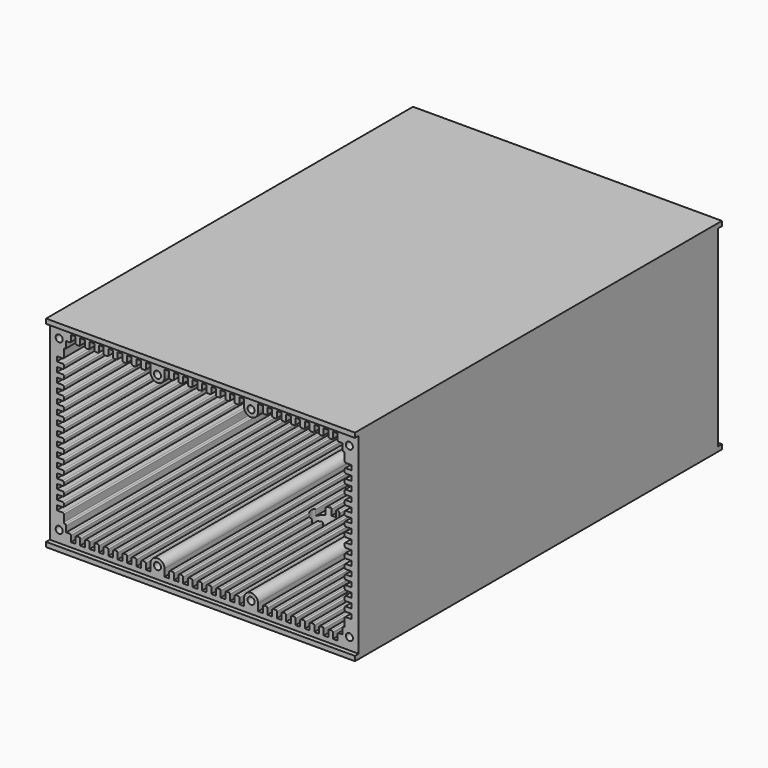
from build123d import *

# Parameters (mm, degrees)
F0_W     = 104.775
F0_H     = 68.2625
F0_R     = 1.190625
F1_DEPTH = 77.7875
F2_W     = 1.5875
F2_H     = 65.0875
F3_DEPTH = 104.775
F5_D     = 8.4328
F5_DEPTH = 12.7
F5_TIP   = 2.5334687141


with BuildPart() as f1:
    # F0 (on Front) → F1 (new body, symmetric)
    with BuildSketch(Plane.XZ):
        Rectangle(F0_W, F0_H)
        with Locations((-49.2125, -28.575)):
            Circle(F0_R, mode=Mode.SUBTRACT)
        with Locations((-15.875, -28.575)):
            Circle(F0_R, mode=Mode.SUBTRACT)
        with Locations((15.875, -28.575)):
            Circle(F0_R, mode=Mode.SUBTRACT)
        with Locations((49.2125, -28.575)):
            Circle(F0_R, mode=Mode.SUBTRACT)
        with Locations((-49.2125, 28.575)):
            Circle(F0_R, mode=Mode.SUBTRACT)
        with Locations((-15.875, 28.575)):
            Circle(F0_R, mode=Mode.SUBTRACT)
        with BuildLine():
            Line((-50.00625, 21.43125), (-50.00625, 23.01875))
            Line((-50.00625, 23.01875), (-48.021875, 23.01875))
            ThreePointArc((-48.021875, 23.01875), (-47.7412419962, 23.1349919962), (-47.625, 23.415625))
            Line((-47.625, 23.415625), (-47.625, 25.796875))
            ThreePointArc((-47.625, 25.796875), (-47.5087580038, 26.0775080038), (-47.228125, 26.19375))
            ThreePointArc((-47.228125, 26.19375), (-46.9474919962, 26.3099919962), (-46.83125, 26.590625))
            Line((-46.83125, 26.590625), (-46.83125, 28.575))
            Line((-46.83125, 28.575), (-45.640625, 28.575))
            ThreePointArc((-45.640625, 28.575), (-45.3599919962, 28.6912419962), (-45.24375, 28.971875))
            Line((-45.24375, 28.971875), (-45.24375, 30.95625))
            Line((-45.24375, 30.95625), (-43.65625, 30.95625))
            Line((-43.65625, 30.95625), (-43.65625, 28.971875))
            ThreePointArc((-43.65625, 28.971875), (-43.5400080038, 28.6912419962), (-43.259375, 28.575))
            Line((-43.259375, 28.575), (-42.465625, 28.575))
            ThreePointArc((-42.465625, 28.575), (-42.1849919962, 28.6912419962), (-42.06875, 28.971875))
            Line((-42.06875, 28.971875), (-42.06875, 30.95625))
            Line((-42.06875, 30.95625), (-40.48125, 30.95625))
            Line((-40.48125, 30.95625), (-40.48125, 28.971875))
            ThreePointArc((-40.48125, 28.971875), (-40.3650080038, 28.6912419962), (-40.084375, 28.575))
            Line((-40.084375, 28.575), (-39.290625, 28.575))
            ThreePointArc((-39.290625, 28.575), (-39.0099919962, 28.6912419962), (-38.89375, 28.971875))
            Line((-38.89375, 28.971875), (-38.89375, 30.95625))
            Line((-38.89375, 30.95625), (-37.30625, 30.95625))
            Line((-37.30625, 30.95625), (-37.30625, 28.971875))
            ThreePointArc((-37.30625, 28.971875), (-37.1900080038, 28.6912419962), (-36.909375, 28.575))
            Line((-36.909375, 28.575), (-36.115625, 28.575))
            ThreePointArc((-36.115625, 28.575), (-35.8349919962, 28.6912419962), (-35.71875, 28.971875))
            Line((-35.71875, 28.971875), (-35.71875, 30.95625))
            Line((-35.71875, 30.95625), (-34.13125, 30.95625))
            Line((-34.13125, 30.95625), (-34.13125, 28.971875))
            ThreePointArc((-34.13125, 28.971875), (-34.0150080038, 28.6912419962), (-33.734375, 28.575))
            Line((-33.734375, 28.575), (-32.940625, 28.575))
            ThreePointArc((-32.940625, 28.575), (-32.6599919962, 28.6912419962), (-32.54375, 28.971875))
            Line((-32.54375, 28.971875), (-32.54375, 30.95625))
            Line((-32.54375, 30.95625), (-30.95625, 30.95625))
            Line((-30.95625, 30.95625), (-30.95625, 28.971875))
            ThreePointArc((-30.95625, 28.971875), (-30.8400080038, 28.6912419962), (-30.559375, 28.575))
            Line((-30.559375, 28.575), (-29.765625, 28.575))
            ThreePointArc((-29.765625, 28.575), (-29.4849919962, 28.6912419962), (-29.36875, 28.971875))
            Line((-29.36875, 28.971875), (-29.36875, 30.95625))
            Line((-29.36875, 30.95625), (-27.78125, 30.95625))
            Line((-27.78125, 30.95625), (-27.78125, 28.971875))
            ThreePointArc((-27.78125, 28.971875), (-27.6650080038, 28.6912419962), (-27.384375, 28.575))
            Line((-27.384375, 28.575), (-26.590625, 28.575))
            ThreePointArc((-26.590625, 28.575), (-26.3099919962, 28.6912419962), (-26.19375, 28.971875))
            Line((-26.19375, 28.971875), (-26.19375, 30.95625))
            Line((-26.19375, 30.95625), (-24.60625, 30.95625))
            Line((-24.60625, 30.95625), (-24.60625, 28.971875))
            ThreePointArc((-24.60625, 28.971875), (-24.4900080038, 28.6912419962), (-24.209375, 28.575))
            Line((-24.209375, 28.575), (-23.415625, 28.575))
            ThreePointArc((-23.415625, 28.575), (-23.1349919962, 28.6912419962), (-23.01875, 28.971875))
            Line((-23.01875, 28.971875), (-23.01875, 30.95625))
            Line((-23.01875, 30.95625), (-21.43125, 30.95625))
            Line((-21.43125, 30.95625), (-21.43125, 28.971875))
            ThreePointArc((-21.43125, 28.971875), (-21.3150080038, 28.6912419962), (-21.034375, 28.575))
            Line((-21.034375, 28.575), (-20.240625, 28.575))
            ThreePointArc((-20.240625, 28.575), (-19.9599919962, 28.6912419962), (-19.84375, 28.971875))
            Line((-19.84375, 28.971875), (-19.84375, 30.95625))
            Line((-19.84375, 30.95625), (-18.25625, 30.95625))
            Line((-18.25625, 30.95625), (-18.25625, 28.575))
            ThreePointArc((-18.25625, 28.575), (-15.875, 26.19375), (-13.49375, 28.575))
            Line((-13.49375, 28.575), (-13.49375, 30.95625))
            Line((-13.49375, 30.95625), (-11.90625, 30.95625))
            Line((-11.90625, 30.95625), (-11.90625, 28.971875))
            ThreePointArc((-11.90625, 28.971875), (-11.7900080038, 28.6912419962), (-11.509375, 28.575))
            Line((-11.509375, 28.575), (-10.715625, 28.575))
            ThreePointArc((-10.715625, 28.575), (-10.4349919962, 28.6912419962), (-10.31875, 28.971875))
            Line((-10.31875, 28.971875), (-10.31875, 30.95625))
            Line((-10.31875, 30.95625), (-8.73125, 30.95625))
            Line((-8.73125, 30.95625), (-8.73125, 28.971875))
            ThreePointArc((-8.73125, 28.971875), (-8.6150080038, 28.6912419962), (-8.334375, 28.575))
            Line((-8.334375, 28.575), (-7.540625, 28.575))
            ThreePointArc((-7.540625, 28.575), (-7.2599919962, 28.6912419962), (-7.14375, 28.971875))
            Line((-7.14375, 28.971875), (-7.14375, 30.95625))
            Line((-7.14375, 30.95625), (-5.55625, 30.95625))
            Line((-5.55625, 30.95625), (-5.55625, 28.971875))
            ThreePointArc((-5.55625, 28.971875), (-5.4400080038, 28.6912419962), (-5.159375, 28.575))
            Line((-5.159375, 28.575), (-4.365625, 28.575))
            ThreePointArc((-4.365625, 28.575), (-4.0849919962, 28.6912419962), (-3.96875, 28.971875))
            Line((-3.96875, 28.971875), (-3.96875, 30.95625))
            Line((-3.96875, 30.95625), (-2.38125, 30.95625))
            Line((-2.38125, 30.95625), (-2.38125, 28.971875))
            ThreePointArc((-2.38125, 28.971875), (-2.2650080038, 28.6912419962), (-1.984375, 28.575))
            Line((-1.984375, 28.575), (-1.190625, 28.575))
            ThreePointArc((-1.190625, 28.575), (-0.9099919962, 28.6912419962), (-0.79375, 28.971875))
            Line((-0.79375, 28.971875), (-0.79375, 30.95625))
            Line((-0.79375, 30.95625), (0, 30.95625))
            Line((0, 30.95625), (0.79375, 30.95625))
            Line((0.79375, 30.95625), (0.79375, 28.971875))
            ThreePointArc((0.79375, 28.971875), (0.9099919962, 28.6912419962), (1.190625, 28.575))
            Line((1.190625, 28.575), (1.984375, 28.575))
            ThreePointArc((1.984375, 28.575), (2.2650080038, 28.6912419962), (2.38125, 28.971875))
            Line((2.38125, 28.971875), (2.38125, 30.95625))
            Line((2.38125, 30.95625), (3.96875, 30.95625))
            Line((3.96875, 30.95625), (3.96875, 28.971875))
            ThreePointArc((3.96875, 28.971875), (4.0849919962, 28.6912419962), (4.365625, 28.575))
            Line((4.365625, 28.575), (5.159375, 28.575))
            ThreePointArc((5.159375, 28.575), (5.4400080038, 28.6912419962), (5.55625, 28.971875))
            Line((5.55625, 28.971875), (5.55625, 30.95625))
            Line((5.55625, 30.95625), (7.14375, 30.95625))
            Line((7.14375, 30.95625), (7.14375, 28.971875))
            ThreePointArc((7.14375, 28.971875), (7.2599919962, 28.6912419962), (7.540625, 28.575))
            Line((7.540625, 28.575), (8.334375, 28.575))
            ThreePointArc((8.334375, 28.575), (8.6150080038, 28.6912419962), (8.73125, 28.971875))
            Line((8.73125, 28.971875), (8.73125, 30.95625))
            Line((8.73125, 30.95625), (10.31875, 30.95625))
            Line((10.31875, 30.95625), (10.31875, 28.971875))
            ThreePointArc((10.31875, 28.971875), (10.4349919962, 28.6912419962), (10.715625, 28.575))
            Line((10.715625, 28.575), (11.509375, 28.575))
            ThreePointArc((11.509375, 28.575), (11.7900080038, 28.6912419962), (11.90625, 28.971875))
            Line((11.90625, 28.971875), (11.90625, 30.95625))
            Line((11.90625, 30.95625), (13.49375, 30.95625))
            Line((13.49375, 30.95625), (13.49375, 28.575))
            ThreePointArc((13.49375, 28.575), (15.875, 26.19375), (18.25625, 28.575))
            Line((18.25625, 28.575), (18.25625, 30.95625))
            Line((18.25625, 30.95625), (19.84375, 30.95625))
            Line((19.84375, 30.95625), (19.84375, 28.971875))
            ThreePointArc((19.84375, 28.971875), (19.9599919962, 28.6912419962), (20.240625, 28.575))
            Line((20.240625, 28.575), (21.034375, 28.575))
            ThreePointArc((21.034375, 28.575), (21.3150080038, 28.6912419962), (21.43125, 28.971875))
            Line((21.43125, 28.971875), (21.43125, 30.95625))
            Line((21.43125, 30.95625), (23.01875, 30.95625))
            Line((23.01875, 30.95625), (23.01875, 28.971875))
            ThreePointArc((23.01875, 28.971875), (23.1349919962, 28.6912419962), (23.415625, 28.575))
            Line((23.415625, 28.575), (24.209375, 28.575))
            ThreePointArc((24.209375, 28.575), (24.4900080038, 28.6912419962), (24.60625, 28.971875))
            Line((24.60625, 28.971875), (24.60625, 30.95625))
            Line((24.60625, 30.95625), (26.19375, 30.95625))
            Line((26.19375, 30.95625), (26.19375, 28.971875))
            ThreePointArc((26.19375, 28.971875), (26.3099919962, 28.6912419962), (26.590625, 28.575))
            Line((26.590625, 28.575), (27.384375, 28.575))
            ThreePointArc((27.384375, 28.575), (27.6650080038, 28.6912419962), (27.78125, 28.971875))
            Line((27.78125, 28.971875), (27.78125, 30.95625))
            Line((27.78125, 30.95625), (29.36875, 30.95625))
            Line((29.36875, 30.95625), (29.36875, 28.971875))
            ThreePointArc((29.36875, 28.971875), (29.4849919962, 28.6912419962), (29.765625, 28.575))
            Line((29.765625, 28.575), (30.559375, 28.575))
            ThreePointArc((30.559375, 28.575), (30.8400080038, 28.6912419962), (30.95625, 28.971875))
            Line((30.95625, 28.971875), (30.95625, 30.95625))
            Line((30.95625, 30.95625), (32.54375, 30.95625))
            Line((32.54375, 30.95625), (32.54375, 28.971875))
            ThreePointArc((32.54375, 28.971875), (32.6599919962, 28.6912419962), (32.940625, 28.575))
            Line((32.940625, 28.575), (33.734375, 28.575))
            ThreePointArc((33.734375, 28.575), (34.0150080038, 28.6912419962), (34.13125, 28.971875))
            Line((34.13125, 28.971875), (34.13125, 30.95625))
            Line((34.13125, 30.95625), (35.71875, 30.95625))
            Line((35.71875, 30.95625), (35.71875, 28.971875))
            ThreePointArc((35.71875, 28.971875), (35.8349919962, 28.6912419962), (36.115625, 28.575))
            Line((36.115625, 28.575), (36.909375, 28.575))
            ThreePointArc((36.909375, 28.575), (37.1900080038, 28.6912419962), (37.30625, 28.971875))
            Line((37.30625, 28.971875), (37.30625, 30.95625))
            Line((37.30625, 30.95625), (38.89375, 30.95625))
            Line((38.89375, 30.95625), (38.89375, 28.971875))
            ThreePointArc((38.89375, 28.971875), (39.0099919962, 28.6912419962), (39.290625, 28.575))
            Line((39.290625, 28.575), (40.084375, 28.575))
            ThreePointArc((40.084375, 28.575), (40.3650080038, 28.6912419962), (40.48125, 28.971875))
            Line((40.48125, 28.971875), (40.48125, 30.95625))
            Line((40.48125, 30.95625), (42.06875, 30.95625))
            Line((42.06875, 30.95625), (42.06875, 28.971875))
            ThreePointArc((42.06875, 28.971875), (42.1849919962, 28.6912419962), (42.465625, 28.575))
            Line((42.465625, 28.575), (43.259375, 28.575))
            ThreePointArc((43.259375, 28.575), (43.5400080038, 28.6912419962), (43.65625, 28.971875))
            Line((43.65625, 28.971875), (43.65625, 30.95625))
            Line((43.65625, 30.95625), (45.24375, 30.95625))
            Line((45.24375, 30.95625), (45.24375, 28.971875))
            ThreePointArc((45.24375, 28.971875), (45.3599919962, 28.6912419962), (45.640625, 28.575))
            Line((45.640625, 28.575), (46.83125, 28.575))
            Line((46.83125, 28.575), (46.83125, 26.590625))
            ThreePointArc((46.83125, 26.590625), (46.9474919962, 26.3099919962), (47.228125, 26.19375))
            ThreePointArc((47.228125, 26.19375), (47.5087580038, 26.0775080038), (47.625, 25.796875))
            Line((47.625, 25.796875), (47.625, 23.415625))
            ThreePointArc((47.625, 23.415625), (47.7412419962, 23.1349919962), (48.021875, 23.01875))
            Line((48.021875, 23.01875), (50.00625, 23.01875))
            Line((50.00625, 23.01875), (50.00625, 21.43125))
            Line((50.00625, 21.43125), (48.021875, 21.43125))
            ThreePointArc((48.021875, 21.43125), (47.7412419962, 21.3150080038), (47.625, 21.034375))
            Line((47.625, 21.034375), (47.625, 20.240625))
            ThreePointArc((47.625, 20.240625), (47.7412419962, 19.9599919962), (48.021875, 19.84375))
            Line((48.021875, 19.84375), (50.00625, 19.84375))
            Line((50.00625, 19.84375), (50.00625, 18.25625))
            Line((50.00625, 18.25625), (48.021875, 18.25625))
            ThreePointArc((48.021875, 18.25625), (47.7412419962, 18.1400080038), (47.625, 17.859375))
            Line((47.625, 17.859375), (47.625, 17.065625))
            ThreePointArc((47.625, 17.065625), (47.7412419962, 16.7849919962), (48.021875, 16.66875))
            Line((48.021875, 16.66875), (50.00625, 16.66875))
            Line((50.00625, 16.66875), (50.00625, 15.08125))
            Line((50.00625, 15.08125), (48.021875, 15.08125))
            ThreePointArc((48.021875, 15.08125), (47.7412419962, 14.9650080038), (47.625, 14.684375))
            Line((47.625, 14.684375), (47.625, 13.890625))
            ThreePointArc((47.625, 13.890625), (47.7412419962, 13.6099919962), (48.021875, 13.49375))
            Line((48.021875, 13.49375), (50.00625, 13.49375))
            Line((50.00625, 13.49375), (50.00625, 11.90625))
            Line((50.00625, 11.90625), (48.021875, 11.90625))
            ThreePointArc((48.021875, 11.90625), (47.7412419962, 11.7900080038), (47.625, 11.509375))
            Line((47.625, 11.509375), (47.625, 10.715625))
            ThreePointArc((47.625, 10.715625), (47.7412419962, 10.4349919962), (48.021875, 10.31875))
            Line((48.021875, 10.31875), (50.00625, 10.31875))
            Line((50.00625, 10.31875), (50.00625, 8.73125))
            Line((50.00625, 8.73125), (48.021875, 8.73125))
            ThreePointArc((48.021875, 8.73125), (47.7412419962, 8.6150080038), (47.625, 8.334375))
            Line((47.625, 8.334375), (47.625, 7.540625))
            ThreePointArc((47.625, 7.540625), (47.7412419962, 7.2599919962), (48.021875, 7.14375))
            Line((48.021875, 7.14375), (50.00625, 7.14375))
            Line((50.00625, 7.14375), (50.00625, 5.55625))
            Line((50.00625, 5.55625), (48.021875, 5.55625))
            ThreePointArc((48.021875, 5.55625), (47.7412419962, 5.4400080038), (47.625, 5.159375))
            Line((47.625, 5.159375), (47.625, 4.365625))
            ThreePointArc((47.625, 4.365625), (47.7412419962, 4.0849919962), (48.021875, 3.96875))
            Line((48.021875, 3.96875), (50.00625, 3.96875))
            Line((50.00625, 3.96875), (50.00625, 2.38125))
            Line((50.00625, 2.38125), (48.021875, 2.38125))
            ThreePointArc((48.021875, 2.38125), (47.7412419962, 2.2650080038), (47.625, 1.984375))
            Line((47.625, 1.984375), (47.625, 1.190625))
            ThreePointArc((47.625, 1.190625), (47.7412419962, 0.9099919962), (48.021875, 0.79375))
            Line((48.021875, 0.79375), (50.00625, 0.79375))
            Line((50.00625, 0.79375), (50.00625, 0))
            Line((50.00625, 0), (50.00625, -0.79375))
            Line((50.00625, -0.79375), (48.021875, -0.79375))
            ThreePointArc((48.021875, -0.79375), (47.7412419962, -0.9099919962), (47.625, -1.190625))
            Line((47.625, -1.190625), (47.625, -1.984375))
            ThreePointArc((47.625, -1.984375), (47.7412419962, -2.2650080038), (48.021875, -2.38125))
            Line((48.021875, -2.38125), (50.00625, -2.38125))
            Line((50.00625, -2.38125), (50.00625, -3.96875))
            Line((50.00625, -3.96875), (48.021875, -3.96875))
            ThreePointArc((48.021875, -3.96875), (47.7412419962, -4.0849919962), (47.625, -4.365625))
            Line((47.625, -4.365625), (47.625, -5.159375))
            ThreePointArc((47.625, -5.159375), (47.7412419962, -5.4400080038), (48.021875, -5.55625))
            Line((48.021875, -5.55625), (50.00625, -5.55625))
            Line((50.00625, -5.55625), (50.00625, -7.14375))
            Line((50.00625, -7.14375), (48.021875, -7.14375))
            ThreePointArc((48.021875, -7.14375), (47.7412419962, -7.2599919962), (47.625, -7.540625))
            Line((47.625, -7.540625), (47.625, -8.334375))
            ThreePointArc((47.625, -8.334375), (47.7412419962, -8.6150080038), (48.021875, -8.73125))
            Line((48.021875, -8.73125), (50.00625, -8.73125))
            Line((50.00625, -8.73125), (50.00625, -10.31875))
            Line((50.00625, -10.31875), (48.021875, -10.31875))
            ThreePointArc((48.021875, -10.31875), (47.7412419962, -10.4349919962), (47.625, -10.715625))
            Line((47.625, -10.715625), (47.625, -11.509375))
            ThreePointArc((47.625, -11.509375), (47.7412419962, -11.7900080038), (48.021875, -11.90625))
            Line((48.021875, -11.90625), (50.00625, -11.90625))
            Line((50.00625, -11.90625), (50.00625, -13.49375))
            Line((50.00625, -13.49375), (48.021875, -13.49375))
            ThreePointArc((48.021875, -13.49375), (47.7412419962, -13.6099919962), (47.625, -13.890625))
            Line((47.625, -13.890625), (47.625, -14.684375))
            ThreePointArc((47.625, -14.684375), (47.7412419962, -14.9650080038), (48.021875, -15.08125))
            Line((48.021875, -15.08125), (50.00625, -15.08125))
            Line((50.00625, -15.08125), (50.00625, -16.66875))
            Line((50.00625, -16.66875), (48.021875, -16.66875))
            ThreePointArc((48.021875, -16.66875), (47.7412419962, -16.7849919962), (47.625, -17.065625))
            Line((47.625, -17.065625), (47.625, -17.859375))
            ThreePointArc((47.625, -17.859375), (47.7412419962, -18.1400080038), (48.021875, -18.25625))
            Line((48.021875, -18.25625), (50.00625, -18.25625))
            Line((50.00625, -18.25625), (50.00625, -19.84375))
            Line((50.00625, -19.84375), (48.021875, -19.84375))
            ThreePointArc((48.021875, -19.84375), (47.7412419962, -19.9599919962), (47.625, -20.240625))
            Line((47.625, -20.240625), (47.625, -21.034375))
            ThreePointArc((47.625, -21.034375), (47.7412419962, -21.3150080038), (48.021875, -21.43125))
            Line((48.021875, -21.43125), (50.00625, -21.43125))
            Line((50.00625, -21.43125), (50.00625, -23.01875))
            Line((50.00625, -23.01875), (48.021875, -23.01875))
            ThreePointArc((48.021875, -23.01875), (47.7412419962, -23.1349919962), (47.625, -23.415625))
            Line((47.625, -23.415625), (47.625, -25.796875))
            ThreePointArc((47.625, -25.796875), (47.5087580038, -26.0775080038), (47.228125, -26.19375))
            ThreePointArc((47.228125, -26.19375), (46.9474919962, -26.3099919962), (46.83125, -26.590625))
            Line((46.83125, -26.590625), (46.83125, -28.575))
            Line((46.83125, -28.575), (45.640625, -28.575))
            ThreePointArc((45.640625, -28.575), (45.3599919962, -28.6912419962), (45.24375, -28.971875))
            Line((45.24375, -28.971875), (45.24375, -30.95625))
            Line((45.24375, -30.95625), (43.65625, -30.95625))
            Line((43.65625, -30.95625), (43.65625, -28.971875))
            ThreePointArc((43.65625, -28.971875), (43.5400080038, -28.6912419962), (43.259375, -28.575))
            Line((43.259375, -28.575), (42.465625, -28.575))
            ThreePointArc((42.465625, -28.575), (42.1849919962, -28.6912419962), (42.06875, -28.971875))
            Line((42.06875, -28.971875), (42.06875, -30.95625))
            Line((42.06875, -30.95625), (40.48125, -30.95625))
            Line((40.48125, -30.95625), (40.48125, -28.971875))
            ThreePointArc((40.48125, -28.971875), (40.3650080038, -28.6912419962), (40.084375, -28.575))
            Line((40.084375, -28.575), (39.290625, -28.575))
            ThreePointArc((39.290625, -28.575), (39.0099919962, -28.6912419962), (38.89375, -28.971875))
            Line((38.89375, -28.971875), (38.89375, -30.95625))
            Line((38.89375, -30.95625), (37.30625, -30.95625))
            Line((37.30625, -30.95625), (37.30625, -28.971875))
            ThreePointArc((37.30625, -28.971875), (37.1900080038, -28.6912419962), (36.909375, -28.575))
            Line((36.909375, -28.575), (36.115625, -28.575))
            ThreePointArc((36.115625, -28.575), (35.8349919962, -28.6912419962), (35.71875, -28.971875))
            Line((35.71875, -28.971875), (35.71875, -30.95625))
            Line((35.71875, -30.95625), (34.13125, -30.95625))
            Line((34.13125, -30.95625), (34.13125, -28.971875))
            ThreePointArc((34.13125, -28.971875), (34.0150080038, -28.6912419962), (33.734375, -28.575))
            Line((33.734375, -28.575), (32.940625, -28.575))
            ThreePointArc((32.940625, -28.575), (32.6599919962, -28.6912419962), (32.54375, -28.971875))
            Line((32.54375, -28.971875), (32.54375, -30.95625))
            Line((32.54375, -30.95625), (30.95625, -30.95625))
            Line((30.95625, -30.95625), (30.95625, -28.971875))
            ThreePointArc((30.95625, -28.971875), (30.8400080038, -28.6912419962), (30.559375, -28.575))
            Line((30.559375, -28.575), (29.765625, -28.575))
            ThreePointArc((29.765625, -28.575), (29.4849919962, -28.6912419962), (29.36875, -28.971875))
            Line((29.36875, -28.971875), (29.36875, -30.95625))
            Line((29.36875, -30.95625), (27.78125, -30.95625))
            Line((27.78125, -30.95625), (27.78125, -28.971875))
            ThreePointArc((27.78125, -28.971875), (27.6650080038, -28.6912419962), (27.384375, -28.575))
            Line((27.384375, -28.575), (26.590625, -28.575))
            ThreePointArc((26.590625, -28.575), (26.3099919962, -28.6912419962), (26.19375, -28.971875))
            Line((26.19375, -28.971875), (26.19375, -30.95625))
            Line((26.19375, -30.95625), (24.60625, -30.95625))
            Line((24.60625, -30.95625), (24.60625, -28.971875))
            ThreePointArc((24.60625, -28.971875), (24.4900080038, -28.6912419962), (24.209375, -28.575))
            Line((24.209375, -28.575), (23.415625, -28.575))
            ThreePointArc((23.415625, -28.575), (23.1349919962, -28.6912419962), (23.01875, -28.971875))
            Line((23.01875, -28.971875), (23.01875, -30.95625))
            Line((23.01875, -30.95625), (21.43125, -30.95625))
            Line((21.43125, -30.95625), (21.43125, -28.971875))
            ThreePointArc((21.43125, -28.971875), (21.3150080038, -28.6912419962), (21.034375, -28.575))
            Line((21.034375, -28.575), (20.240625, -28.575))
            ThreePointArc((20.240625, -28.575), (19.9599919962, -28.6912419962), (19.84375, -28.971875))
            Line((19.84375, -28.971875), (19.84375, -30.95625))
            Line((19.84375, -30.95625), (18.25625, -30.95625))
            Line((18.25625, -30.95625), (18.25625, -28.575))
            ThreePointArc((18.25625, -28.575), (15.875, -26.19375), (13.49375, -28.575))
            Line((13.49375, -28.575), (13.49375, -30.95625))
            Line((13.49375, -30.95625), (11.90625, -30.95625))
            Line((11.90625, -30.95625), (11.90625, -28.971875))
            ThreePointArc((11.90625, -28.971875), (11.7900080038, -28.6912419962), (11.509375, -28.575))
            Line((11.509375, -28.575), (10.715625, -28.575))
            ThreePointArc((10.715625, -28.575), (10.4349919962, -28.6912419962), (10.31875, -28.971875))
            Line((10.31875, -28.971875), (10.31875, -30.95625))
            Line((10.31875, -30.95625), (8.73125, -30.95625))
            Line((8.73125, -30.95625), (8.73125, -28.971875))
            ThreePointArc((8.73125, -28.971875), (8.6150080038, -28.6912419962), (8.334375, -28.575))
            Line((8.334375, -28.575), (7.540625, -28.575))
            ThreePointArc((7.540625, -28.575), (7.2599919962, -28.6912419962), (7.14375, -28.971875))
            Line((7.14375, -28.971875), (7.14375, -30.95625))
            Line((7.14375, -30.95625), (5.55625, -30.95625))
            Line((5.55625, -30.95625), (5.55625, -28.971875))
            ThreePointArc((5.55625, -28.971875), (5.4400080038, -28.6912419962), (5.159375, -28.575))
            Line((5.159375, -28.575), (4.365625, -28.575))
            ThreePointArc((4.365625, -28.575), (4.0849919962, -28.6912419962), (3.96875, -28.971875))
            Line((3.96875, -28.971875), (3.96875, -30.95625))
            Line((3.96875, -30.95625), (2.38125, -30.95625))
            Line((2.38125, -30.95625), (2.38125, -28.971875))
            ThreePointArc((2.38125, -28.971875), (2.2650080038, -28.6912419962), (1.984375, -28.575))
            Line((1.984375, -28.575), (1.190625, -28.575))
            ThreePointArc((1.190625, -28.575), (0.9099919962, -28.6912419962), (0.79375, -28.971875))
            Line((0.79375, -28.971875), (0.79375, -30.95625))
            Line((0.79375, -30.95625), (0, -30.95625))
            Line((0, -30.95625), (-0.79375, -30.95625))
            Line((-0.79375, -30.95625), (-0.79375, -28.971875))
            ThreePointArc((-0.79375, -28.971875), (-0.9099919962, -28.6912419962), (-1.190625, -28.575))
            Line((-1.190625, -28.575), (-1.984375, -28.575))
            ThreePointArc((-1.984375, -28.575), (-2.2650080038, -28.6912419962), (-2.38125, -28.971875))
            Line((-2.38125, -28.971875), (-2.38125, -30.95625))
            Line((-2.38125, -30.95625), (-3.96875, -30.95625))
            Line((-3.96875, -30.95625), (-3.96875, -28.971875))
            ThreePointArc((-3.96875, -28.971875), (-4.0849919962, -28.6912419962), (-4.365625, -28.575))
            Line((-4.365625, -28.575), (-5.159375, -28.575))
            ThreePointArc((-5.159375, -28.575), (-5.4400080038, -28.6912419962), (-5.55625, -28.971875))
            Line((-5.55625, -28.971875), (-5.55625, -30.95625))
            Line((-5.55625, -30.95625), (-7.14375, -30.95625))
            Line((-7.14375, -30.95625), (-7.14375, -28.971875))
            ThreePointArc((-7.14375, -28.971875), (-7.2599919962, -28.6912419962), (-7.540625, -28.575))
            Line((-7.540625, -28.575), (-8.334375, -28.575))
            ThreePointArc((-8.334375, -28.575), (-8.6150080038, -28.6912419962), (-8.73125, -28.971875))
            Line((-8.73125, -28.971875), (-8.73125, -30.95625))
            Line((-8.73125, -30.95625), (-10.31875, -30.95625))
            Line((-10.31875, -30.95625), (-10.31875, -28.971875))
            ThreePointArc((-10.31875, -28.971875), (-10.4349919962, -28.6912419962), (-10.715625, -28.575))
            Line((-10.715625, -28.575), (-11.509375, -28.575))
            ThreePointArc((-11.509375, -28.575), (-11.7900080038, -28.6912419962), (-11.90625, -28.971875))
            Line((-11.90625, -28.971875), (-11.90625, -30.95625))
            Line((-11.90625, -30.95625), (-13.49375, -30.95625))
            Line((-13.49375, -30.95625), (-13.49375, -28.575))
            ThreePointArc((-13.49375, -28.575), (-15.875, -26.19375), (-18.25625, -28.575))
            Line((-18.25625, -28.575), (-18.25625, -30.95625))
            Line((-18.25625, -30.95625), (-19.84375, -30.95625))
            Line((-19.84375, -30.95625), (-19.84375, -28.971875))
            ThreePointArc((-19.84375, -28.971875), (-19.9599919962, -28.6912419962), (-20.240625, -28.575))
            Line((-20.240625, -28.575), (-21.034375, -28.575))
            ThreePointArc((-21.034375, -28.575), (-21.3150080038, -28.6912419962), (-21.43125, -28.971875))
            Line((-21.43125, -28.971875), (-21.43125, -30.95625))
            Line((-21.43125, -30.95625), (-23.01875, -30.95625))
            Line((-23.01875, -30.95625), (-23.01875, -28.971875))
            ThreePointArc((-23.01875, -28.971875), (-23.1349919962, -28.6912419962), (-23.415625, -28.575))
            Line((-23.415625, -28.575), (-24.209375, -28.575))
            ThreePointArc((-24.209375, -28.575), (-24.4900080038, -28.6912419962), (-24.60625, -28.971875))
            Line((-24.60625, -28.971875), (-24.60625, -30.95625))
            Line((-24.60625, -30.95625), (-26.19375, -30.95625))
            Line((-26.19375, -30.95625), (-26.19375, -28.971875))
            ThreePointArc((-26.19375, -28.971875), (-26.3099919962, -28.6912419962), (-26.590625, -28.575))
            Line((-26.590625, -28.575), (-27.384375, -28.575))
            ThreePointArc((-27.384375, -28.575), (-27.6650080038, -28.6912419962), (-27.78125, -28.971875))
            Line((-27.78125, -28.971875), (-27.78125, -30.95625))
            Line((-27.78125, -30.95625), (-29.36875, -30.95625))
            Line((-29.36875, -30.95625), (-29.36875, -28.971875))
            ThreePointArc((-29.36875, -28.971875), (-29.4849919962, -28.6912419962), (-29.765625, -28.575))
            Line((-29.765625, -28.575), (-30.559375, -28.575))
            ThreePointArc((-30.559375, -28.575), (-30.8400080038, -28.6912419962), (-30.95625, -28.971875))
            Line((-30.95625, -28.971875), (-30.95625, -30.95625))
            Line((-30.95625, -30.95625), (-32.54375, -30.95625))
            Line((-32.54375, -30.95625), (-32.54375, -28.971875))
            ThreePointArc((-32.54375, -28.971875), (-32.6599919962, -28.6912419962), (-32.940625, -28.575))
            Line((-32.940625, -28.575), (-33.734375, -28.575))
            ThreePointArc((-33.734375, -28.575), (-34.0150080038, -28.6912419962), (-34.13125, -28.971875))
            Line((-34.13125, -28.971875), (-34.13125, -30.95625))
            Line((-34.13125, -30.95625), (-35.71875, -30.95625))
            Line((-35.71875, -30.95625), (-35.71875, -28.971875))
            ThreePointArc((-35.71875, -28.971875), (-35.8349919962, -28.6912419962), (-36.115625, -28.575))
            Line((-36.115625, -28.575), (-36.909375, -28.575))
            ThreePointArc((-36.909375, -28.575), (-37.1900080038, -28.6912419962), (-37.30625, -28.971875))
            Line((-37.30625, -28.971875), (-37.30625, -30.95625))
            Line((-37.30625, -30.95625), (-38.89375, -30.95625))
            Line((-38.89375, -30.95625), (-38.89375, -28.971875))
            ThreePointArc((-38.89375, -28.971875), (-39.0099919962, -28.6912419962), (-39.290625, -28.575))
            Line((-39.290625, -28.575), (-40.084375, -28.575))
            ThreePointArc((-40.084375, -28.575), (-40.3650080038, -28.6912419962), (-40.48125, -28.971875))
            Line((-40.48125, -28.971875), (-40.48125, -30.95625))
            Line((-40.48125, -30.95625), (-42.06875, -30.95625))
            Line((-42.06875, -30.95625), (-42.06875, -28.971875))
            ThreePointArc((-42.06875, -28.971875), (-42.1849919962, -28.6912419962), (-42.465625, -28.575))
            Line((-42.465625, -28.575), (-43.259375, -28.575))
            ThreePointArc((-43.259375, -28.575), (-43.5400080038, -28.6912419962), (-43.65625, -28.971875))
            Line((-43.65625, -28.971875), (-43.65625, -30.95625))
            Line((-43.65625, -30.95625), (-45.24375, -30.95625))
            Line((-45.24375, -30.95625), (-45.24375, -28.971875))
            ThreePointArc((-45.24375, -28.971875), (-45.3599919962, -28.6912419962), (-45.640625, -28.575))
            Line((-45.640625, -28.575), (-46.83125, -28.575))
            Line((-46.83125, -28.575), (-46.83125, -26.590625))
            ThreePointArc((-46.83125, -26.590625), (-46.9474919962, -26.3099919962), (-47.228125, -26.19375))
            ThreePointArc((-47.228125, -26.19375), (-47.5087580038, -26.0775080038), (-47.625, -25.796875))
            Line((-47.625, -25.796875), (-47.625, -23.415625))
            ThreePointArc((-47.625, -23.415625), (-47.7412419962, -23.1349919962), (-48.021875, -23.01875))
            Line((-48.021875, -23.01875), (-50.00625, -23.01875))
            Line((-50.00625, -23.01875), (-50.00625, -21.43125))
            Line((-50.00625, -21.43125), (-48.021875, -21.43125))
            ThreePointArc((-48.021875, -21.43125), (-47.7412419962, -21.3150080038), (-47.625, -21.034375))
            Line((-47.625, -21.034375), (-47.625, -20.240625))
            ThreePointArc((-47.625, -20.240625), (-47.7412419962, -19.9599919962), (-48.021875, -19.84375))
            Line((-48.021875, -19.84375), (-50.00625, -19.84375))
            Line((-50.00625, -19.84375), (-50.00625, -18.25625))
            Line((-50.00625, -18.25625), (-48.021875, -18.25625))
            ThreePointArc((-48.021875, -18.25625), (-47.7412419962, -18.1400080038), (-47.625, -17.859375))
            Line((-47.625, -17.859375), (-47.625, -17.065625))
            ThreePointArc((-47.625, -17.065625), (-47.7412419962, -16.7849919962), (-48.021875, -16.66875))
            Line((-48.021875, -16.66875), (-50.00625, -16.66875))
            Line((-50.00625, -16.66875), (-50.00625, -15.08125))
            Line((-50.00625, -15.08125), (-48.021875, -15.08125))
            ThreePointArc((-48.021875, -15.08125), (-47.7412419962, -14.9650080038), (-47.625, -14.684375))
            Line((-47.625, -14.684375), (-47.625, -13.890625))
            ThreePointArc((-47.625, -13.890625), (-47.7412419962, -13.6099919962), (-48.021875, -13.49375))
            Line((-48.021875, -13.49375), (-50.00625, -13.49375))
            Line((-50.00625, -13.49375), (-50.00625, -11.90625))
            Line((-50.00625, -11.90625), (-48.021875, -11.90625))
            ThreePointArc((-48.021875, -11.90625), (-47.7412419962, -11.7900080038), (-47.625, -11.509375))
            Line((-47.625, -11.509375), (-47.625, -10.715625))
            ThreePointArc((-47.625, -10.715625), (-47.7412419962, -10.4349919962), (-48.021875, -10.31875))
            Line((-48.021875, -10.31875), (-50.00625, -10.31875))
            Line((-50.00625, -10.31875), (-50.00625, -8.73125))
            Line((-50.00625, -8.73125), (-48.021875, -8.73125))
            ThreePointArc((-48.021875, -8.73125), (-47.7412419962, -8.6150080038), (-47.625, -8.334375))
            Line((-47.625, -8.334375), (-47.625, -7.540625))
            ThreePointArc((-47.625, -7.540625), (-47.7412419962, -7.2599919962), (-48.021875, -7.14375))
            Line((-48.021875, -7.14375), (-50.00625, -7.14375))
            Line((-50.00625, -7.14375), (-50.00625, -5.55625))
            Line((-50.00625, -5.55625), (-48.021875, -5.55625))
            ThreePointArc((-48.021875, -5.55625), (-47.7412419962, -5.4400080038), (-47.625, -5.159375))
            Line((-47.625, -5.159375), (-47.625, -4.365625))
            ThreePointArc((-47.625, -4.365625), (-47.7412419962, -4.0849919962), (-48.021875, -3.96875))
            Line((-48.021875, -3.96875), (-50.00625, -3.96875))
            Line((-50.00625, -3.96875), (-50.00625, -2.38125))
            Line((-50.00625, -2.38125), (-48.021875, -2.38125))
            ThreePointArc((-48.021875, -2.38125), (-47.7412419962, -2.2650080038), (-47.625, -1.984375))
            Line((-47.625, -1.984375), (-47.625, -1.190625))
            ThreePointArc((-47.625, -1.190625), (-47.7412419962, -0.9099919962), (-48.021875, -0.79375))
            Line((-48.021875, -0.79375), (-50.00625, -0.79375))
            Line((-50.00625, -0.79375), (-50.00625, 0))
            Line((-50.00625, 0), (-50.00625, 0.79375))
            Line((-50.00625, 0.79375), (-48.021875, 0.79375))
            ThreePointArc((-48.021875, 0.79375), (-47.7412419962, 0.9099919962), (-47.625, 1.190625))
            Line((-47.625, 1.190625), (-47.625, 1.984375))
            ThreePointArc((-47.625, 1.984375), (-47.7412419962, 2.2650080038), (-48.021875, 2.38125))
            Line((-48.021875, 2.38125), (-50.00625, 2.38125))
            Line((-50.00625, 2.38125), (-50.00625, 3.96875))
            Line((-50.00625, 3.96875), (-48.021875, 3.96875))
            ThreePointArc((-48.021875, 3.96875), (-47.7412419962, 4.0849919962), (-47.625, 4.365625))
            Line((-47.625, 4.365625), (-47.625, 5.159375))
            ThreePointArc((-47.625, 5.159375), (-47.7412419962, 5.4400080038), (-48.021875, 5.55625))
            Line((-48.021875, 5.55625), (-50.00625, 5.55625))
            Line((-50.00625, 5.55625), (-50.00625, 7.14375))
            Line((-50.00625, 7.14375), (-48.021875, 7.14375))
            ThreePointArc((-48.021875, 7.14375), (-47.7412419962, 7.2599919962), (-47.625, 7.540625))
            Line((-47.625, 7.540625), (-47.625, 8.334375))
            ThreePointArc((-47.625, 8.334375), (-47.7412419962, 8.6150080038), (-48.021875, 8.73125))
            Line((-48.021875, 8.73125), (-50.00625, 8.73125))
            Line((-50.00625, 8.73125), (-50.00625, 10.31875))
            Line((-50.00625, 10.31875), (-48.021875, 10.31875))
            ThreePointArc((-48.021875, 10.31875), (-47.7412419962, 10.4349919962), (-47.625, 10.715625))
            Line((-47.625, 10.715625), (-47.625, 11.509375))
            ThreePointArc((-47.625, 11.509375), (-47.7412419962, 11.7900080038), (-48.021875, 11.90625))
            Line((-48.021875, 11.90625), (-50.00625, 11.90625))
            Line((-50.00625, 11.90625), (-50.00625, 13.49375))
            Line((-50.00625, 13.49375), (-48.021875, 13.49375))
            ThreePointArc((-48.021875, 13.49375), (-47.7412419962, 13.6099919962), (-47.625, 13.890625))
            Line((-47.625, 13.890625), (-47.625, 14.684375))
            ThreePointArc((-47.625, 14.684375), (-47.7412419962, 14.9650080038), (-48.021875, 15.08125))
            Line((-48.021875, 15.08125), (-50.00625, 15.08125))
            Line((-50.00625, 15.08125), (-50.00625, 16.66875))
            Line((-50.00625, 16.66875), (-48.021875, 16.66875))
            ThreePointArc((-48.021875, 16.66875), (-47.7412419962, 16.7849919962), (-47.625, 17.065625))
            Line((-47.625, 17.065625), (-47.625, 17.859375))
            ThreePointArc((-47.625, 17.859375), (-47.7412419962, 18.1400080038), (-48.021875, 18.25625))
            Line((-48.021875, 18.25625), (-50.00625, 18.25625))
            Line((-50.00625, 18.25625), (-50.00625, 19.84375))
            Line((-50.00625, 19.84375), (-48.021875, 19.84375))
            ThreePointArc((-48.021875, 19.84375), (-47.7412419962, 19.9599919962), (-47.625, 20.240625))
            Line((-47.625, 20.240625), (-47.625, 21.034375))
            ThreePointArc((-47.625, 21.034375), (-47.7412419962, 21.3150080038), (-48.021875, 21.43125))
            Line((-48.021875, 21.43125), (-50.00625, 21.43125))
        make_face(mode=Mode.SUBTRACT)
        with Locations((15.875, 28.575)):
            Circle(F0_R, mode=Mode.SUBTRACT)
        with Locations((49.2125, 28.575)):
            Circle(F0_R, mode=Mode.SUBTRACT)
    extrude(amount=F1_DEPTH, both=True)

    # F2 (on face) → F3 (cut, through all)
    with BuildSketch(Plane.YZ.offset(52.3875)):
        with Locations((-76.99375, 0)):
            Rectangle(F2_W, F2_H)
        with Locations((76.99375, 0)):
            Rectangle(F2_W, F2_H)
    extrude(amount=-F3_DEPTH, mode=Mode.SUBTRACT)

    # F5
    with Locations(Plane(origin=(0, 0, -34.13125), x_dir=(1, 0, 0), z_dir=(0, 0, -1))):
        with Locations((0, 25.4), (0, 0), (0, -25.4)):
            Hole(F5_D / 2, depth=F5_DEPTH)
            with Locations((0, 0, -(F5_DEPTH + F5_TIP / 2))):  # 118° drill point
                Cone(0, F5_D / 2, F5_TIP, mode=Mode.SUBTRACT)


solid = f1.part
